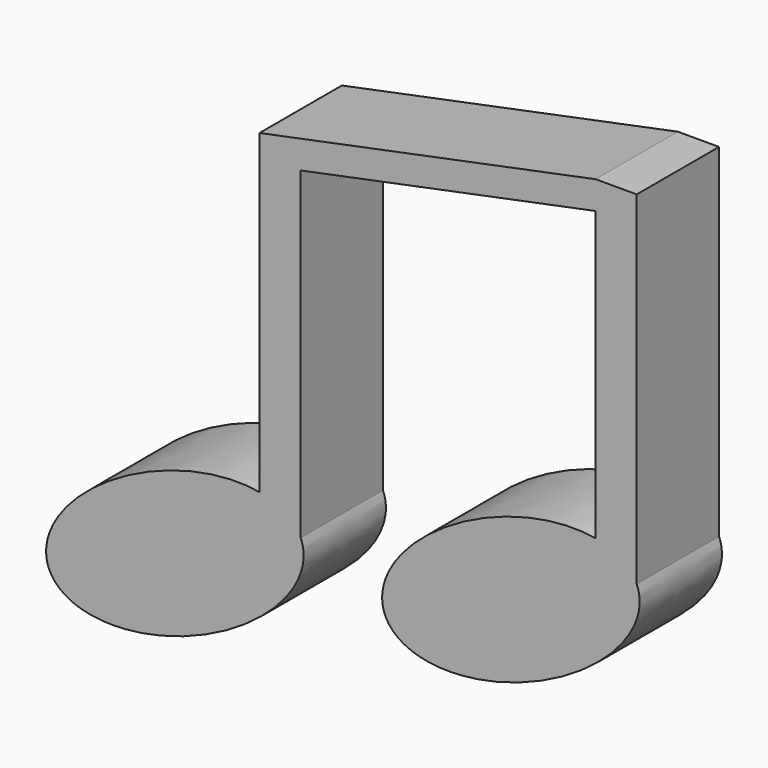
from build123d import *

# Parameters (mm, degrees)
F1_DEPTH = 15
F2_R     = 6.5
F3_DEPTH = 13.5
F4_R     = 5


with BuildPart() as f1:
    # F0 (on Front) → F1 (new body)
    with BuildSketch(Plane.XZ):
        with BuildLine():
            add(Edge.make_bspline(
                [(12.345655, 11.864802), (-30.375552, 19.744474), (-18.345655, -7.96473)],
                knots=[3.780961, 3.780961, 3.780961, 6.283185, 6.283185, 6.283185], degree=2, weights=[1, 0.314267, 1]))
            add(Edge.make_bspline(
                [(-18.345655, -7.96473), (-14.36329, -17.137558), (3.982365, -9.172828), (22.328021, -1.208097), (18.345655, 7.96473)],
                knots=[0, 0, 0, 1.570796, 1.570796, 3.141593, 3.141593, 3.141593], degree=2, weights=[1, 0.707107, 1, 0.707107, 1]))
            Line((18.345655, 7.96473), (12.345655, 7.96473))
            Line((12.345655, 7.96473), (12.345655, 11.864802))
        make_face()
        with BuildLine():
            Line((12.345655, 7.96473), (18.345655, 7.96473))
            add(Edge.make_bspline(
                [(18.345655, 7.96473), (17.027337, 11.001294), (12.345655, 11.864802)],
                knots=[3.141593, 3.141593, 3.141593, 3.780961, 3.780961, 3.780961], degree=2, weights=[1, 0.949335, 1]))
            Line((12.345655, 11.864802), (12.345655, 7.96473))
        make_face()
        with BuildLine():
            add(Edge.make_bspline(
                [(12.345655, 11.864802), (-30.375552, 19.744474), (-18.345655, -7.96473)],
                knots=[3.780961, 3.780961, 3.780961, 6.283185, 6.283185, 6.283185], degree=2, weights=[1, 0.314267, 1]))
            add(Edge.make_bspline(
                [(-18.345655, -7.96473), (-14.36329, -17.137558), (3.982365, -9.172828), (22.328021, -1.208097), (18.345655, 7.96473)],
                knots=[0, 0, 0, 1.570796, 1.570796, 3.141593, 3.141593, 3.141593], degree=2, weights=[1, 0.707107, 1, 0.707107, 1]))
            Line((18.345655, 7.96473), (12.345655, 7.96473))
            Line((12.345655, 7.96473), (12.345655, 11.864802))
        make_face()
        with BuildLine():
            add(Edge.make_bspline(
                [(18.345655, 7.96473), (17.027337, 11.001294), (12.345655, 11.864802)],
                knots=[3.141593, 3.141593, 3.141593, 3.780961, 3.780961, 3.780961], degree=2, weights=[1, 0.949335, 1]))
            Line((18.345655, 7.96473), (18.345655, 55.106992))
            Line((18.345655, 55.106992), (18.345655, 57.96473))
            Line((18.345655, 57.96473), (12.345655, 57.96473))
            Line((12.345655, 57.96473), (12.345655, 11.864802))
        make_face()
        Polygon((18.345655, 57.96473), (18.345655, 55.106992), (61.33545, 63.882247), (61.33545, 67.96473), (12.345655, 57.96473), align=None)
        with BuildLine():
            Line((61.33545, 67.96473), (61.33545, 63.882247))
            Line((61.33545, 63.882247), (61.33545, 21.864802))
            add(Edge.make_bspline(
                [(67.33545, 17.96473), (66.017132, 21.001294), (61.33545, 21.864802)],
                knots=[3.141593, 3.141593, 3.141593, 3.780961, 3.780961, 3.780961], degree=2, weights=[1, 0.949335, 1]))
            Line((67.33545, 17.96473), (67.33545, 67.96473))
            Line((67.33545, 67.96473), (61.33545, 67.96473))
        make_face()
        with BuildLine():
            Line((61.33545, 67.96473), (61.33545, 63.882247))
            Line((61.33545, 63.882247), (61.33545, 21.864802))
            add(Edge.make_bspline(
                [(67.33545, 17.96473), (66.017132, 21.001294), (61.33545, 21.864802)],
                knots=[3.141593, 3.141593, 3.141593, 3.780961, 3.780961, 3.780961], degree=2, weights=[1, 0.949335, 1]))
            Line((67.33545, 17.96473), (67.33545, 67.96473))
            Line((67.33545, 67.96473), (61.33545, 67.96473))
        make_face()
        with BuildLine():
            add(Edge.make_bspline(
                [(67.33545, 17.96473), (66.017132, 21.001294), (61.33545, 21.864802)],
                knots=[3.141593, 3.141593, 3.141593, 3.780961, 3.780961, 3.780961], degree=2, weights=[1, 0.949335, 1]))
            Line((61.33545, 21.864802), (61.33545, 17.96473))
            Line((61.33545, 17.96473), (67.33545, 17.96473))
        make_face()
        with BuildLine():
            Line((61.33545, 17.96473), (61.33545, 21.864802))
            add(Edge.make_bspline(
                [(61.33545, 21.864802), (18.614243, 29.744474), (30.64414, 2.03527)],
                knots=[3.780961, 3.780961, 3.780961, 6.283185, 6.283185, 6.283185], degree=2, weights=[1, 0.314267, 1]))
            add(Edge.make_bspline(
                [(30.64414, 2.03527), (34.626505, -7.137558), (52.97216, 0.827172), (71.317815, 8.791903), (67.33545, 17.96473)],
                knots=[0, 0, 0, 1.570796, 1.570796, 3.141593, 3.141593, 3.141593], degree=2, weights=[1, 0.707107, 1, 0.707107, 1]))
            Line((67.33545, 17.96473), (61.33545, 17.96473))
        make_face()
    extrude(amount=F1_DEPTH)

    # F2 (on face) → F3 (cut)
    with BuildSketch(Plane(origin=(0, 0, 0), x_dir=(-1, 0, 0), z_dir=(0, 1, 0))):
        with Locations((-57.550041, 12.990905)):
            Circle(F2_R)
        with Locations((-40.721868, 6.602434)):
            Circle(F2_R)
        with Locations((-8.320603, 3.430686)):
            Circle(F2_R)
        with Locations((8.344655, -3.371459)):
            Circle(F2_R)
    extrude(amount=-F3_DEPTH, mode=Mode.SUBTRACT)

    # F4
    f4_edges = [f1.edges().sort_by_distance(p)[0] for p in [
        (47.221868, -13.5, 6.602434),
        (64.050041, -13.5, 12.990905),
        (14.820603, -13.5, 3.430686),
        (-1.844655, -13.5, -3.371459),
    ]]
    fillet(f4_edges, radius=F4_R)


solid = f1.part
